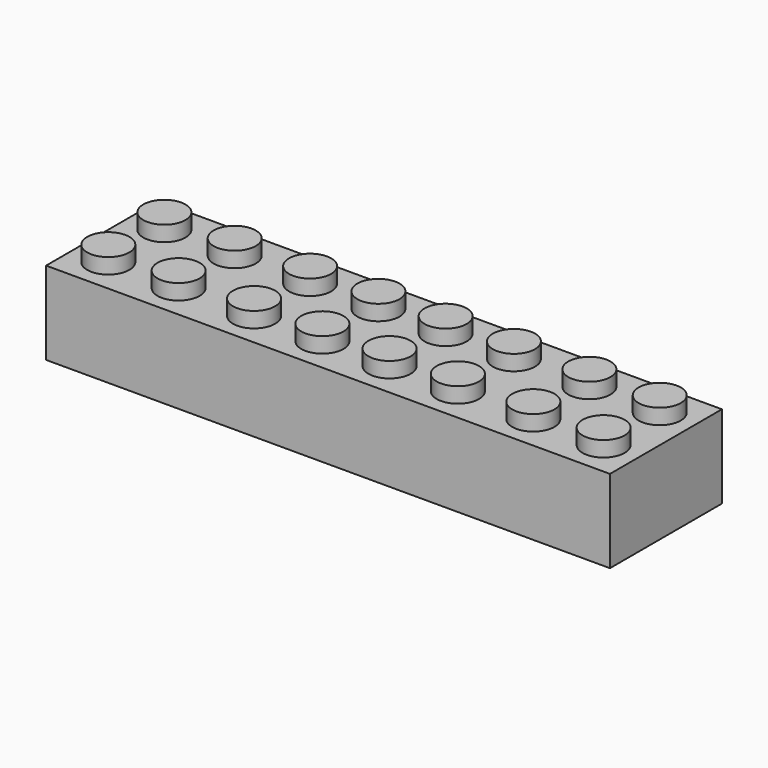
from build123d import *

# Parameters (mm, degrees)
F0_W     = 64.1604
F0_H     = 15.9258
F1_DEPTH = 9.4488
F2_R     = 2.4003
F3_DEPTH = 1.7526
F4_W     = 60.9346
F4_H     = 12.8524
F5_DEPTH = 8.128
F6_R     = 3.175
F7_DEPTH = 8.128
F8_R     = 2.5654
F9_DEPTH = 8.128


with BuildPart() as f1:
    # F0 (on Top) → F1 (new body)
    with BuildSketch(Plane.XY):
        Rectangle(F0_W, F0_H)
    extrude(amount=F1_DEPTH)

    # F2 (on face) → F3 (join)
    with BuildSketch(Plane.XY.offset(9.4488)):
        with Locations((-28.1813, -3.9878)):
            Circle(F2_R)
        with Locations((-20.1803, -3.9878)):
            Circle(F2_R)
        with Locations((-11.5951, -3.9878)):
            Circle(F2_R)
        with Locations((-3.8227, -3.9878)):
            Circle(F2_R)
        with Locations((3.8227, -3.9878)):
            Circle(F2_R)
        with Locations((11.5951, -3.9878)):
            Circle(F2_R)
        with Locations((20.1803, -3.9878)):
            Circle(F2_R)
        with Locations((28.1813, -3.9878)):
            Circle(F2_R)
        with Locations((28.1813, 3.9878)):
            Circle(F2_R)
        with Locations((20.1803, 3.9878)):
            Circle(F2_R)
        with Locations((11.5951, 3.9878)):
            Circle(F2_R)
        with Locations((3.8227, 3.9878)):
            Circle(F2_R)
        with Locations((-3.8227, 3.9878)):
            Circle(F2_R)
        with Locations((-11.5951, 3.9878)):
            Circle(F2_R)
        with Locations((-20.1803, 3.9878)):
            Circle(F2_R)
        with Locations((-28.1813, 3.9878)):
            Circle(F2_R)
    extrude(amount=F3_DEPTH)

    # F4 (on face) → F5 (cut)
    with BuildSketch(Plane(origin=(0, 0, 0), x_dir=(1, 0, 0), z_dir=(0, 0, -1))):
        Rectangle(F4_W, F4_H)
    extrude(amount=-F5_DEPTH, mode=Mode.SUBTRACT)

    # F6 (on face) → F7 (join)
    with BuildSketch(Plane(origin=(0, 0, 8.128), x_dir=(1, 0, 0), z_dir=(0, 0, -1))):
        with Locations((-25.222215, 0)):
            Circle(F6_R)
        with Locations((-16.592832, 0)):
            Circle(F6_R)
        with Locations((-7.534514, 0)):
            Circle(F6_R)
        with Locations((1.221147, 0)):
            Circle(F6_R)
        with Locations((9.622647, 0)):
            Circle(F6_R)
        with Locations((17.994031, 0)):
            Circle(F6_R)
        with Locations((26.055757, 0)):
            Circle(F6_R)
    extrude(amount=F7_DEPTH)

    # F8 (on face) → F9 (cut)
    with BuildSketch(Plane(origin=(0, 0, 0), x_dir=(1, 0, 0), z_dir=(0, 0, -1))):
        with Locations((-25.179168, 0)):
            Circle(F8_R)
        with Locations((-16.512433, 0)):
            Circle(F8_R)
        with Locations((-7.449481, 0)):
            Circle(F8_R)
        with Locations((1.221147, 0)):
            Circle(F8_R)
        with Locations((9.641448, 0)):
            Circle(F8_R)
        with Locations((18.037833, 0)):
            Circle(F8_R)
        with Locations((26.063653, 0)):
            Circle(F8_R)
    extrude(amount=-F9_DEPTH, mode=Mode.SUBTRACT)


solid = f1.part
